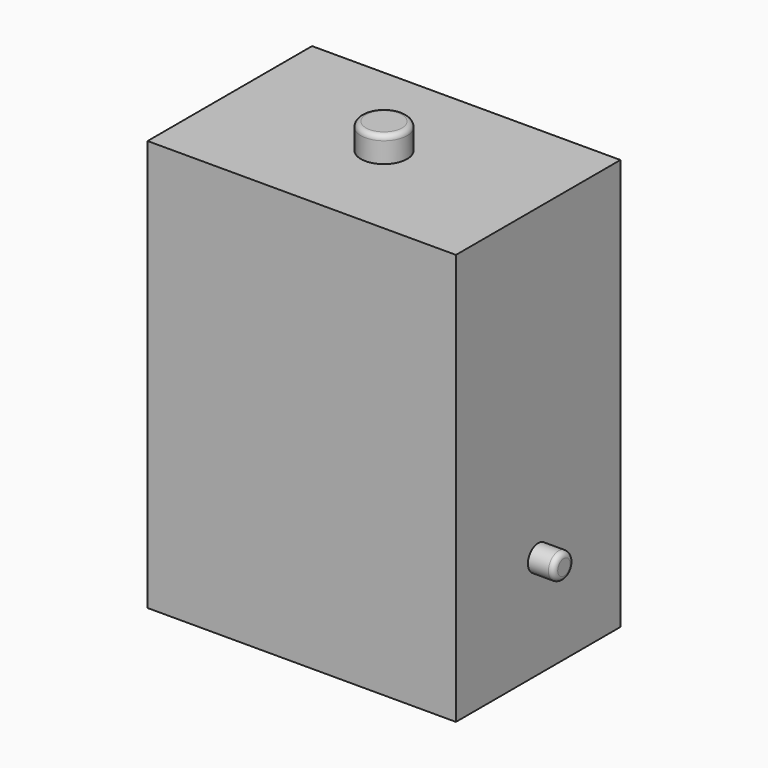
from build123d import *

# Parameters (mm, degrees)
F0_W     = 76.2
F0_H     = 101.6
F1_DEPTH = 50.8
F3_R     = 3.175
F5_DEPTH = 6.35
F2_R     = 3.175
F6_DEPTH = 6.35
F4_R     = 5.715
F7_DEPTH = 6.35
F8_R     = 1.27


with BuildPart() as f1:
    # F0 (on Front) → F1 (new body)
    with BuildSketch(Plane.XZ):
        Rectangle(F0_W, F0_H)
    extrude(amount=F1_DEPTH)

    # F3 (on face) → F5 (join)
    with BuildSketch(Plane(origin=(-38.1, 0, 0), x_dir=(0, -1, 0), z_dir=(-1, 0, 0))):
        with Locations((25.4, -25.4)):
            Circle(F3_R)
    extrude(amount=F5_DEPTH)

    # F2 (on face) → F6 (join)
    with BuildSketch(Plane.YZ.offset(38.1)):
        with Locations((-25.4, -25.4)):
            Circle(F2_R)
    extrude(amount=F6_DEPTH)

    # F4 (on face) → F7 (join)
    with BuildSketch(Plane.XY.offset(50.8)):
        with Locations((0, -25.4)):
            Circle(F4_R)
    extrude(amount=F7_DEPTH)

    # F8
    f8_edges = [f1.edges().sort_by_distance(p)[0] for p in [
        (44.45, -28.575, -25.4),
        (-5.715, -25.4, 57.15),
        (-44.45, -22.225, -25.4),
    ]]
    fillet(f8_edges, radius=F8_R)


solid = f1.part
